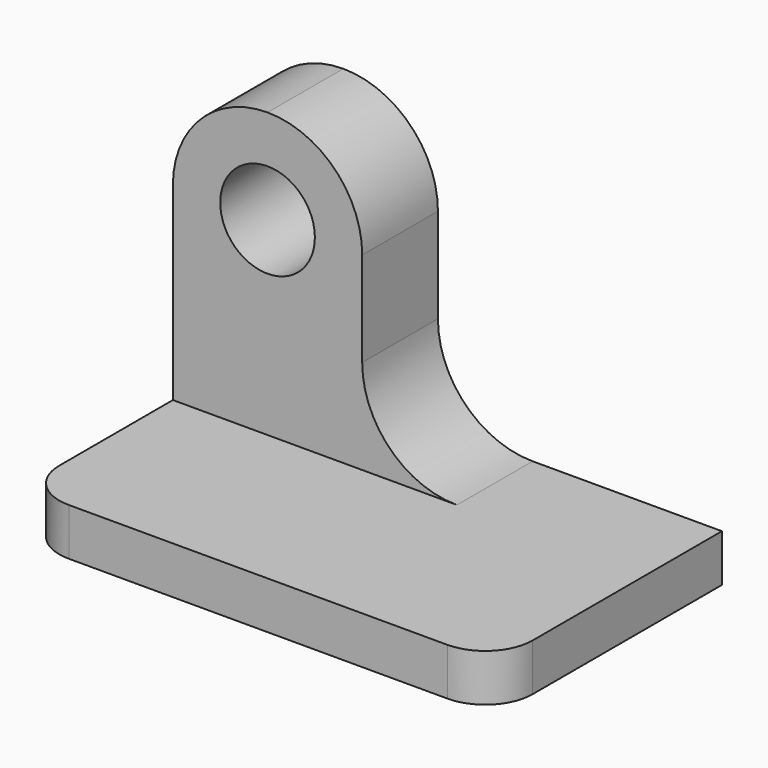
from build123d import *

# Parameters (mm, degrees)
F0_W      = 63.5
F0_H      = 44.45
F1_DEPTH  = 38.1
F2_W      = 25.4
F2_H      = 38.1
F3_DEPTH  = 63.501
F4_W      = 25.4
F4_H      = 38.1
F5_DEPTH  = 12.701
F7_DEPTH  = 12.701
F8_R      = 6.35
F9_DEPTH  = 12.701
F11_DEPTH = 12.701
F13_DEPTH = 12.701
F15_DEPTH = 25.4
F17_DEPTH = 6.351


with BuildPart() as f1:
    # F0 (on Front) → F1 (new body)
    with BuildSketch(Plane.XZ):
        with Locations((-31.75, 22.225)):
            Rectangle(F0_W, F0_H)
    extrude(amount=F1_DEPTH)

    # F2 (on face) → F3 (cut, through all)
    with BuildSketch(Plane(origin=(-63.5, 0, 0), x_dir=(0, -1, 0), z_dir=(-1, 0, 0))):
        with Locations((25.4, 25.4)):
            Rectangle(F2_W, F2_H)
    extrude(amount=-F3_DEPTH, mode=Mode.SUBTRACT)

    # F4 (on face) → F5 (cut, through all)
    with BuildSketch(Plane.XZ.offset(12.7)):
        with Locations((-12.7, 25.4)):
            Rectangle(F4_W, F4_H)
    extrude(amount=-F5_DEPTH, mode=Mode.SUBTRACT)

    # F6 (on face) → F7 (cut, through all)
    with BuildSketch(Plane.XZ.offset(12.7)):
        with BuildLine():
            Line((-38.1, 44.45), (-50.8, 44.45))
            ThreePointArc((-50.8, 44.45), (-41.8197438789, 40.7302561211), (-38.1, 31.75))
            Line((-38.1, 31.75), (-38.1, 44.45))
        make_face()
        with BuildLine():
            Line((-50.8, 44.45), (-63.5, 44.45))
            Line((-63.5, 44.45), (-63.5, 31.75))
            ThreePointArc((-63.5, 31.75), (-59.7802561211, 40.7302561211), (-50.8, 44.45))
        make_face()
    extrude(amount=-F7_DEPTH, mode=Mode.SUBTRACT)

    # F8 (on face) → F9 (cut, through all)
    with BuildSketch(Plane.XZ.offset(12.7)):
        with Locations((-50.8, 31.75)):
            Circle(F8_R)
    extrude(amount=-F9_DEPTH, mode=Mode.SUBTRACT)

    # F10 (on face) → F11 (cut, through all)
    with BuildSketch(Plane.XZ.offset(12.7)):
        Polygon((-38.1, 44.45), (-38.1, 31.75), (-38.1, 19.05), (-25.4, 19.05), (-25.4, 44.45), align=None)
    extrude(amount=-F11_DEPTH, mode=Mode.SUBTRACT)

    # F12 (on face) → F13 (cut, through all)
    with BuildSketch(Plane.XZ.offset(12.7)):
        with BuildLine():
            Line((-25.4, 19.05), (-38.1, 19.05))
            ThreePointArc((-38.1, 19.05), (-34.3802561211, 10.0697438789), (-25.4, 6.35))
            Line((-25.4, 6.35), (-25.4, 19.05))
        make_face()
    extrude(amount=-F13_DEPTH, mode=Mode.SUBTRACT)

    # F14 (on face) → F15 (cut)
    with BuildSketch(Plane.XY.offset(6.35)):
        with BuildLine():
            Line((-63.5, -31.75), (-63.5, -38.1))
            Line((-63.5, -38.1), (-57.15, -38.1))
            ThreePointArc((-57.15, -38.1), (-61.6401280605, -36.2401280605), (-63.5, -31.75))
        make_face()
    extrude(amount=-F15_DEPTH, mode=Mode.SUBTRACT)

    # F16 (on face) → F17 (cut, through all)
    with BuildSketch(Plane.XY.offset(6.35)):
        with BuildLine():
            Line((-6.35, -38.1), (0, -38.1))
            Line((0, -38.1), (0, -31.75))
            ThreePointArc((0, -31.75), (-1.8598719395, -36.2401280605), (-6.35, -38.1))
        make_face()
    extrude(amount=-F17_DEPTH, mode=Mode.SUBTRACT)


solid = f1.part
